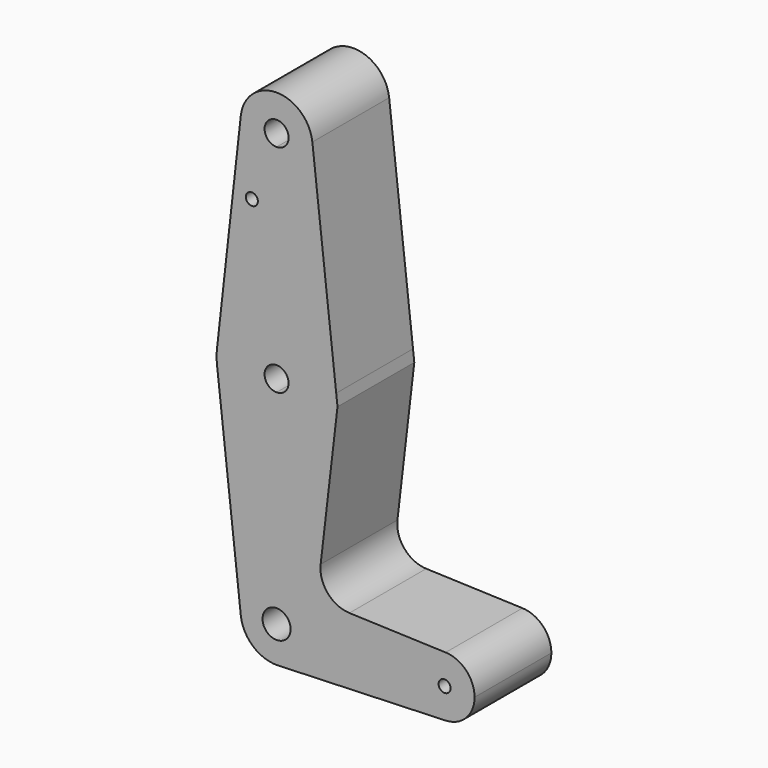
from build123d import *

# Parameters (mm, degrees)
F0_R     = 1.5875
F1_DEPTH = 25.4


with BuildPart() as f1:
    # F0 (on Front) → F1 (new body)
    with BuildSketch(Plane.XZ):
        with BuildLine():
            ThreePointArc((-9.4660211047, 115.3583333333), (-7.0995158286, 107.95), (0, 104.775))
            ThreePointArc((0, 104.775), (6.7351920908, 107.5648079092), (9.525, 114.3))
            ThreePointArc((9.525, 114.3), (9.5102438461, 114.829987725), (9.4660211047, 115.3583333333))
            ThreePointArc((9.4660211047, 115.3583333333), (0, 123.825), (-9.4660211047, 115.3583333333))
        make_face()
        with BuildLine():
            ThreePointArc((3.175, 114.3), (2.2450640303, 112.0549359697), (0, 111.125))
            ThreePointArc((0, 111.125), (-2.2450640303, 116.5450640303), (3.175, 114.3))
        make_face(mode=Mode.SUBTRACT)
        with BuildLine():
            ThreePointArc((9.525, 114.3), (6.7351920908, 107.5648079092), (0, 104.775))
            Line((0, 104.775), (0, 73.025))
            ThreePointArc((0, 73.025), (10.583333311, 68.9825264009), (15.7767018346, 58.9138889484))
            Line((15.7767018346, 58.9138889484), (9.4660211047, 115.3583333333))
            ThreePointArc((9.4660211047, 115.3583333333), (9.5102438461, 114.829987725), (9.525, 114.3))
        make_face()
        with BuildLine():
            Line((0, 73.025), (0, 104.775))
            ThreePointArc((0, 104.775), (-7.0995158286, 107.95), (-9.4660211047, 115.3583333333))
            Line((-9.4660211047, 115.3583333333), (-15.7767018412, 58.9138888889))
            ThreePointArc((-15.7767018412, 58.9138888889), (-10.5833333333, 68.9825263809), (0, 73.025))
        make_face()
        with Locations((-6.536657922, 96.8486368656)):
            Circle(F0_R, mode=Mode.SUBTRACT)
        with BuildLine():
            ThreePointArc((15.7767018346, 58.9138889484), (10.583333311, 68.9825264009), (0, 73.025))
            Line((0, 73.025), (0, 60.325))
            ThreePointArc((0, 60.325), (2.2450640303, 59.3950640303), (3.175, 57.15))
            ThreePointArc((3.175, 57.15), (2.2450640303, 54.9049359697), (0, 53.975))
            Line((0, 53.975), (0, 41.275))
            ThreePointArc((0, 41.275), (11.2253201513, 45.9246798487), (15.875, 57.15))
            ThreePointArc((15.875, 57.15), (15.8504064084, 58.0333129049), (15.7767018346, 58.9138889484))
        make_face()
        with BuildLine():
            Line((0, 60.325), (0, 73.025))
            ThreePointArc((0, 73.025), (-10.5833333333, 68.9825263809), (-15.7767018412, 58.9138888889))
            ThreePointArc((-15.7767018412, 58.9138888889), (-15.875, 57.15), (-15.7767018412, 55.3861111111))
            ThreePointArc((-15.7767018412, 55.3861111111), (-10.5833333333, 45.3174736191), (0, 41.275))
            Line((0, 41.275), (0, 53.975))
            ThreePointArc((0, 53.975), (-3.175, 57.15), (0, 60.325))
        make_face()
        with BuildLine():
            Line((16.117565787, 55.8651090734), (15.7767018346, 58.9138889484))
            ThreePointArc((15.7767018346, 58.9138889484), (15.8504064084, 58.0333129049), (15.875, 57.15))
            ThreePointArc((15.875, 57.15), (11.2253201513, 45.9246798487), (0, 41.275))
            Line((0, 41.275), (0, 9.525))
            ThreePointArc((0, 9.525), (6.7351920908, 6.7351920908), (9.525, 0))
            Line((9.525, 0), (36.5125, 0))
            ThreePointArc((36.5125, 0), (38.9380895153, 5.7116327839), (44.7324052746, 7.9324746146))
            Line((44.7324052746, 7.9324746146), (19.2724307174, 8.8388791673))
            ThreePointArc((19.2724307174, 8.8388791673), (13.523281635, 11.6051866798), (11.6588127349, 17.70673797))
            Line((11.6588127349, 17.70673797), (16.117565787, 55.8651090734))
        make_face()
        with BuildLine():
            ThreePointArc((0, 41.275), (-10.5833333333, 45.3174736191), (-15.7767018412, 55.3861111111))
            Line((-15.7767018412, 55.3861111111), (-9.4660211047, -1.0583333333))
            ThreePointArc((-9.4660211047, -1.0583333333), (-7.0995158286, 6.35), (0, 9.525))
            Line((0, 9.525), (0, 41.275))
        make_face()
        with BuildLine():
            ThreePointArc((0, 9.525), (-7.0995158286, 6.35), (-9.4660211047, -1.0583333333))
            ThreePointArc((-9.4660211047, -1.0583333333), (-6.2221898671, -7.2117943854), (0.3401785714, -9.5189234444))
            ThreePointArc((0.3401785714, -9.5189234444), (6.8544082857, -6.6138273378), (9.525, 0))
            Line((9.525, 0), (3.7138939914, 0))
            ThreePointArc((3.7138939914, 0), (-2.6261196259, -2.6261196259), (0, 3.7138939914))
            Line((0, 3.7138939914), (0, 9.525))
        make_face()
        with BuildLine():
            ThreePointArc((9.525, 0), (6.8544082857, -6.6138273378), (0.3401785714, -9.5189234444))
            Line((0.3401785714, -9.5189234444), (44.7334821429, -7.9324362036))
            ThreePointArc((44.7334821429, -7.9324362036), (38.9384772185, -5.7120069047), (36.5125, 0))
            Line((36.5125, 0), (9.525, 0))
        make_face()
        with BuildLine():
            ThreePointArc((52.3875, 0), (50.1616327839, 5.5119104847), (44.7324052746, 7.9324746146))
            ThreePointArc((44.7324052746, 7.9324746146), (38.9380895153, 5.7116327839), (36.5125, 0))
            ThreePointArc((36.5125, 0), (38.9384772185, -5.7120069047), (44.7334821429, -7.9324362036))
            ThreePointArc((44.7334821429, -7.9324362036), (50.1620069047, -5.5115227815), (52.3875, 0))
        make_face()
        with BuildLine():
            ThreePointArc((46.0375, 0), (44.45, -1.5875), (42.8625, 0))
            ThreePointArc((42.8625, 0), (44.45, 1.5875), (46.0375, 0))
        make_face(mode=Mode.SUBTRACT)
        with BuildLine():
            ThreePointArc((9.525, 0), (6.7351920908, 6.7351920908), (0, 9.525))
            Line((0, 9.525), (0, 3.7138939914))
            ThreePointArc((0, 3.7138939914), (2.6261196259, 2.6261196259), (3.7138939914, 0))
            Line((3.7138939914, 0), (9.525, 0))
        make_face()
    extrude(amount=F1_DEPTH)


solid = f1.part
